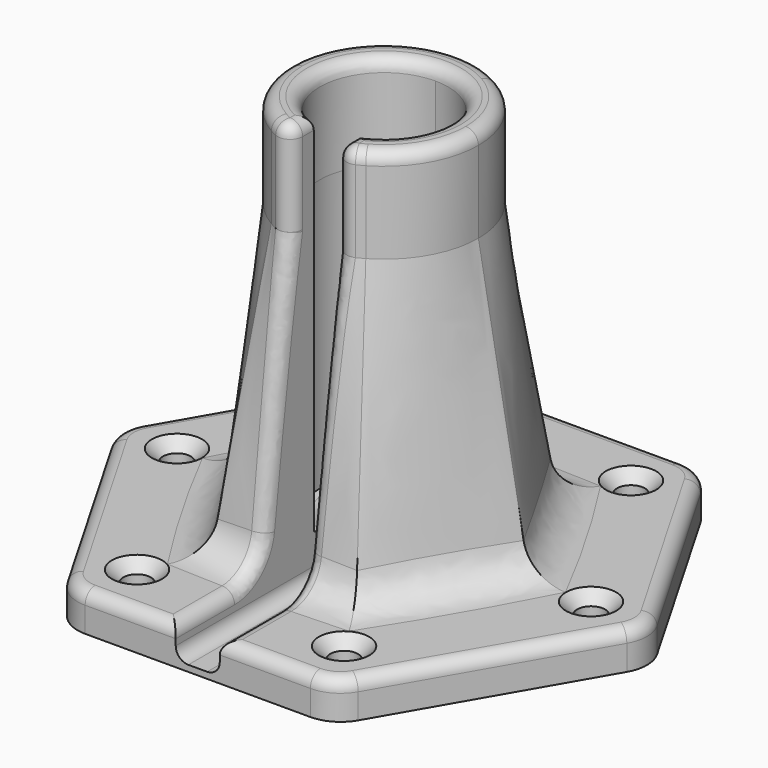
from build123d import *

# Parameters (mm, degrees)
PAD_DEPTH          = 6
SKETCH002_R        = 15
HOLE_D             = 4.4
HOLE_CSINK_D       = 8
HOLE_CSINK_ANGLE   = 90
POLARPATTERN_COUNT = 6
SKETCH004_R        = 10.2
HOLE001_DEPTH      = 43.201465
HOLE001_TIPS_R     = 10.2
SKETCH005_R        = 7.5
POCKET_DEPTH       = 51.001
POCKET_FACE29_R    = 10.2
PAD001_DEPTH       = 15
SKETCH006_W        = 7
SKETCH006_H        = 37
POCKET001_DEPTH    = 65
FILLET_R           = 6
FILLET001_R        = 2


with BuildPart() as part:
    # Sketch → Pad (new body)
    with BuildSketch(Plane.XY):
        Polygon((21.36196, -37), (42.72392, 0), (21.36196, 37), (-21.36196, 37), (-42.72392, 0), (-21.36196, -37), align=None)
    extrude(amount=PAD_DEPTH)

    # Sketch001 (on Face8 of Pad) → AdditiveLoft section 0
    with BuildSketch(Plane.XY.offset(6)):
        Polygon((11.547005, -20), (23.094011, 0), (11.547005, 20), (-11.547005, 20), (-23.094011, 0), (-11.547005, -20), align=None)
    # Sketch002 (on DatumPlane) → AdditiveLoft section 1
    with BuildSketch(Plane.XY.offset(51)):
        Circle(SKETCH002_R)
    loft()

    # Hole (through all)
    with Locations(Plane.XY.offset(6)):
        with Locations((16.454483, 28.5)):
            hole = CounterSinkHole(HOLE_D / 2, HOLE_CSINK_D / 2, counter_sink_angle=HOLE_CSINK_ANGLE)

    # PolarPattern: Hole ×6 about axis
    polarpattern_axis = Axis((0, 0, 6), (0, 0, 1))
    for i in range(1, POLARPATTERN_COUNT):
        add(hole.rotate(polarpattern_axis, i * 360 / POLARPATTERN_COUNT), mode=Mode.SUBTRACT)

    # Sketch004 (on Face27 of PolarPattern) → Hole001 (cut)
    with BuildSketch(Plane.XY.offset(51)):
        Circle(SKETCH004_R)
    extrude(amount=-HOLE001_DEPTH, mode=Mode.SUBTRACT)

    # Hole001 tips → Hole001 tip 1 section 0
    with BuildSketch(Plane.XY.offset(7.798535), mode=Mode.PRIVATE) as hole001_tip_1_s0:
        Circle(HOLE001_TIPS_R)
    loft([hole001_tip_1_s0.sketch, Vertex(0, 0, 6)], mode=Mode.SUBTRACT)

    # Sketch005 (on Face4 of Hole001) → Pocket (cut, through all)
    with BuildSketch(Plane(origin=(0, 0, 0), x_dir=(1, 0, 0), z_dir=(0, 0, -1))):
        Circle(SKETCH005_R)
    extrude(amount=-POCKET_DEPTH, mode=Mode.SUBTRACT)

    # Pocket Face29 → Pad001 (add)
    with BuildSketch(Plane(origin=(0, 0, 51), x_dir=(0, 1, 0), z_dir=(0, 0, 1))):
        with BuildLine():
            ThreePointArc((0, -15), (7.5, -12.990381), (12.990381, -7.5))
            ThreePointArc((12.990381, -7.5), (15, 0), (12.990381, 7.5))
            ThreePointArc((12.990381, 7.5), (7.5, 12.990381), (0, 15))
            ThreePointArc((0, 15), (-7.5, 12.990381), (-12.990381, 7.5))
            ThreePointArc((-12.990381, 7.5), (-15, 0), (-12.990381, -7.5))
            ThreePointArc((-12.990381, -7.5), (-7.5, -12.990381), (0, -15))
        make_face()
        Circle(POCKET_FACE29_R, mode=Mode.SUBTRACT)
    extrude(amount=PAD001_DEPTH)

    # Sketch006 (on Face36 of Pad001) → Pocket001 (cut)
    with BuildSketch(Plane.XY.offset(66)):
        with Locations((0, -18.5)):
            Rectangle(SKETCH006_W, SKETCH006_H)
    extrude(amount=-POCKET001_DEPTH, mode=Mode.SUBTRACT)

    # Fillet
    fillet_edges = [part.edges().sort_by_distance(p)[0] for p in [
        (17.320508, -10, 6),
        (7.523503, -20, 6),
        (-7.523503, -20, 6),
        (-17.320508, -10, 6),
        (-17.320508, 10, 6),
        (0, 20, 6),
        (17.320508, 10, 6),
        (42.72392, 0, 3),
        (21.36196, 37, 3),
        (21.36196, -37, 3),
        (-21.36196, -37, 3),
        (-42.72392, 0, 3),
        (-21.36196, 37, 3),
    ]]
    fillet(fillet_edges, radius=FILLET_R)

    # Fillet001
    fillet001_edges = [part.edges().sort_by_distance(p)[0] for p in [
        (-3.5, -14.585952, 58.5),
        (-3.5, -12.083331, 66),
        (-3.5, -17.047186, 31.161752),
        (3.5, -17.047186, 31.161752),
        (3.5, -14.585952, 58.5),
        (3.5, -12.083331, 66),
        (8.358828, -5.845511, 66),
        (12.990381, -7.5, 66),
        (-3.5, -21.816625, 1),
        (3.5, -21.816625, 1),
        (10.698929, -37, 6),
        (6.422616, -3.872983, 7.322452),
    ]]
    fillet(fillet001_edges, radius=FILLET001_R)


solid = part.part
